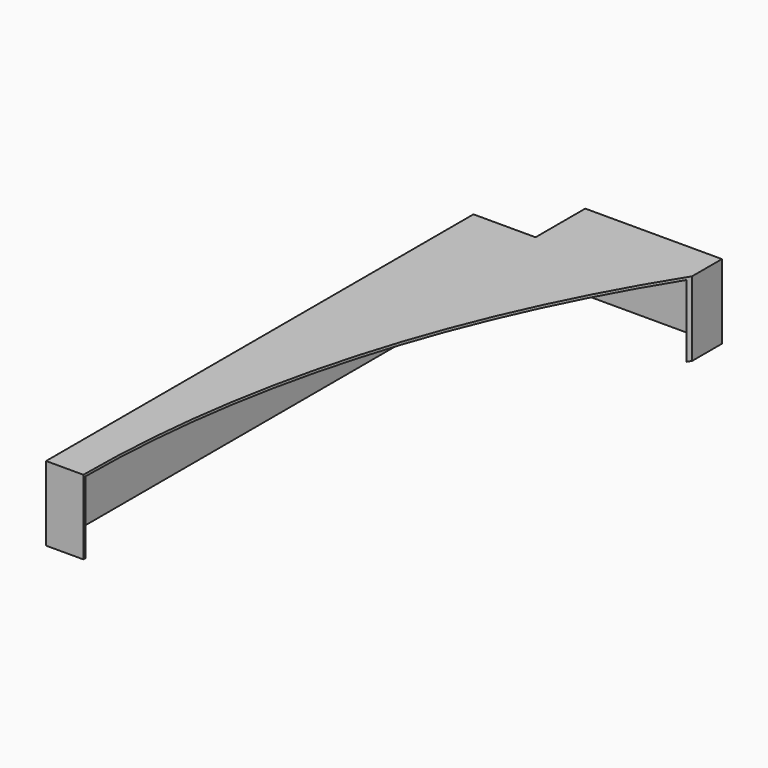
from build123d import *

# Parameters (mm, degrees)
F1_DEPTH = 76.2
F2_T     = -2.54


with BuildPart() as f1:
    # F0 (on Top) → F1 (new body)
    with BuildSketch(Plane.XY):
        with BuildLine():
            Line((203.2, 0), (63.5, 0))
            Line((63.5, 0), (63.5, -63.5))
            Line((63.5, -63.5), (0, -63.5))
            Line((0, -63.5), (0, -609.6))
            Line((0, -609.6), (38.1, -609.6))
            ThreePointArc((38.1, -609.6), (80.202006, -312.165024), (203.2, -38.1))
            Line((203.2, -38.1), (203.2, 0))
        make_face()
    extrude(amount=-F1_DEPTH)

    # F2
    f2_openings = [f1.faces().sort_by_distance(p)[0] for p in [
        (66.483993, -223.719229, -76.2),
        (80.202006, -312.165024, -38.1),
        (31.75, -63.5, -38.1),
        (63.5, -31.75, -38.1),
    ]]
    offset(amount=F2_T, openings=f2_openings)


solid = f1.part
